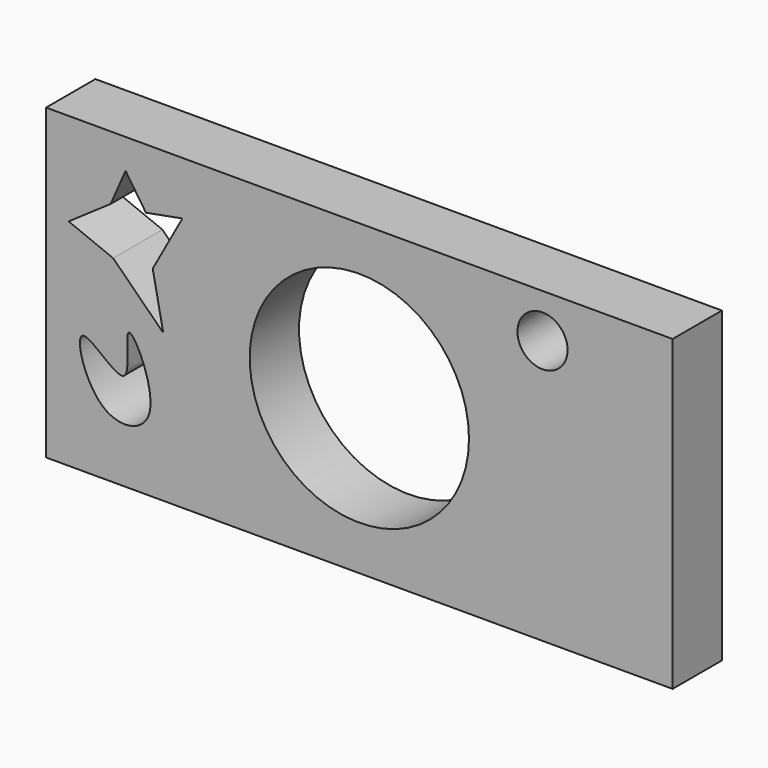
from build123d import *

# Parameters (mm, degrees)
F0_W     = 254
F0_H     = 124.89681042
F0_R     = 44.45
F0_R_2   = 10.16
F1_DEPTH = 25


with BuildPart() as f1:
    # F0 (on Front) → F1 (new body)
    with BuildSketch(Plane.XZ):
        Rectangle(F0_W, F0_H)
        with BuildLine():
            add(Edge.make_bspline(
                [(-111.8297055364, -14.0468934551), (-108.425997633, -13.5337411193), (-89.7890833693, -35.4029321863), (-98.3591092209, 8.4755792258), (-75.3691059536, -38.0833989268), (-107.6188350377, -45.052064293), (-115.733462609, -14.6354345746), (-111.8297055364, -14.0468934551)],
                knots=[0, 0, 0, 0, 0.1888961726, 0.3648878018, 0.5921138685, 0.7833525112, 1, 1, 1, 1], degree=3))
        make_face(mode=Mode.SUBTRACT)
        Polygon((-117.8443804383, 24.7979369015), (-100.8027791977, 36.5766920149), (-94.7880968451, 50.360340625), (-86.5179076791, 38.0803644657), (-71.731813252, 40.8370904624), (-83.7611779571, 19.0338641405), (-79.5007795095, -2.5187504943), (-99.8003333807, 17.5301935524), align=None, mode=Mode.SUBTRACT)
        Circle(F0_R, mode=Mode.SUBTRACT)
        with Locations((74.2585881539, 44.6522309495)):
            Circle(F0_R_2, mode=Mode.SUBTRACT)
    extrude(amount=F1_DEPTH)


solid = f1.part
